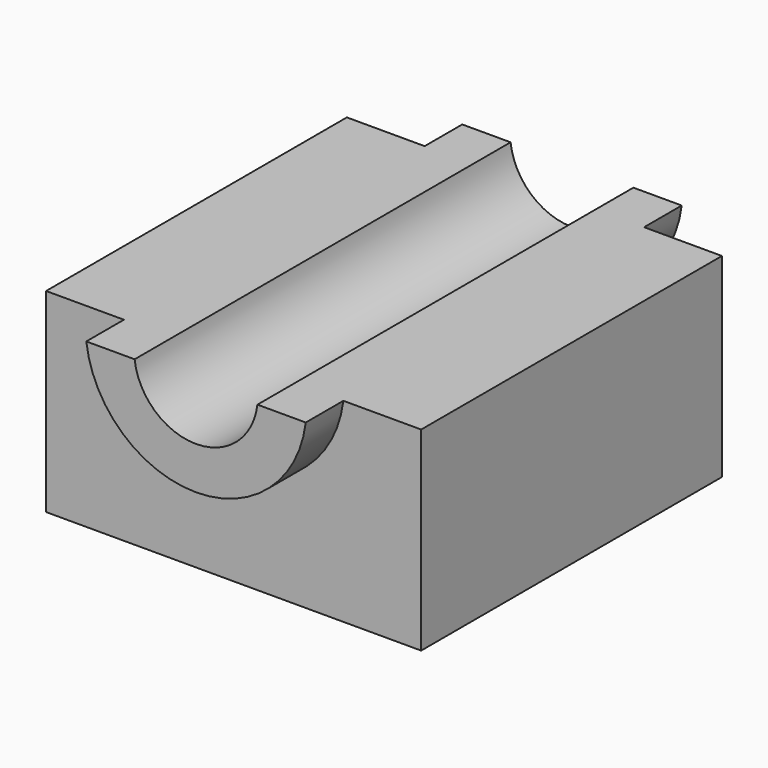
from build123d import *

# Parameters (mm, degrees)
F1_DEPTH      = 150
F1_DEPTH_BACK = 150
F0_W          = 49.6755242348
F0_H          = 124.2471858859
F2_DEPTH      = 120
F2_DEPTH_BACK = 120
F4_D          = 50
F4_DEPTH      = 62.124592943


with BuildPart() as f1:
    # F0 (on Front) → F1 (new body, two sides)
    with BuildSketch(Plane.XZ) as f1_sk:
        with BuildLine():
            Line((-39.2000116408, 62.123592943), (-70.0469091535, 62.123592943))
            ThreePointArc((-70.0469091535, 62.123592943), (0, 0.0945745131), (70.0469091535, 62.123592943))
            Line((70.0469091535, 62.123592943), (39.2000116408, 62.123592943))
            Line((39.2000116408, 62.123592943), (39.2000116408, 26.8699936569))
            Line((39.2000116408, 26.8699936569), (-39.2000116408, 26.8699936569))
            Line((-39.2000116408, 26.8699936569), (-39.2000116408, 62.123592943))
        make_face()
        with BuildLine():
            ThreePointArc((39.2000116408, 62.123592943), (0, 27.2705569476), (-39.2000116408, 62.123592943))
            Line((-39.2000116408, 62.123592943), (-39.2000116408, 26.8699936569))
            Line((-39.2000116408, 26.8699936569), (39.2000116408, 26.8699936569))
            Line((39.2000116408, 26.8699936569), (39.2000116408, 62.123592943))
        make_face()
    extrude(amount=F1_DEPTH)
    extrude(f1_sk.sketch, amount=-F1_DEPTH_BACK)

    # F0 (on Front) → F2 (join, two sides)
    with BuildSketch(Plane.XZ) as f2_sk:
        with Locations((-94.8846712708, 0)):
            Rectangle(F0_W, F0_H)
        with BuildLine():
            ThreePointArc((70.0469091535, 62.123592943), (0, 0.0945745131), (-70.0469091535, 62.123592943))
            Line((-70.0469091535, 62.123592943), (-70.0469091535, -62.123592943))
            Line((-70.0469091535, -62.123592943), (70.0469091535, -62.123592943))
            Line((70.0469091535, -62.123592943), (70.0469091535, 62.123592943))
        make_face()
        with Locations((94.8846712708, 0)):
            Rectangle(F0_W, F0_H)
    extrude(amount=F2_DEPTH)
    extrude(f2_sk.sketch, amount=-F2_DEPTH_BACK)

    # F4 (through all, one way)
    with BuildSketch(Plane.XY):
        with Locations((-84.6987441182, 0), (81.8660110235, 0)):
            Circle(F4_D / 2)
    extrude(amount=-F4_DEPTH, mode=Mode.SUBTRACT)


solid = f1.part
